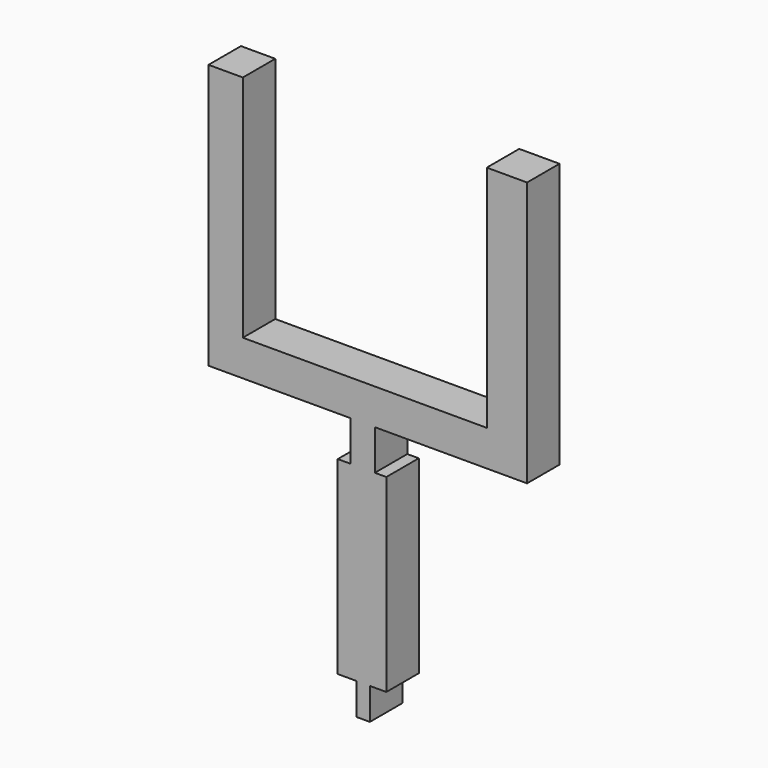
from build123d import *

# Parameters (mm, degrees)
F1_DEPTH = 4
F2_W     = 1.315023
F2_H     = 3.250724
F3_DEPTH = 4


with BuildPart() as f1:
    # F0 (on Front) → F1 (new body)
    with BuildSketch(Plane.XZ):
        Polygon((-45.647606, 43.93246), (-49.033377, 43.93246), (-49.033377, 17.80575), (-35.052311, 17.80575), (-35.052311, 13.84626), (-32.624222, 13.84626), (-32.624222, 17.80575), (-17.614221, 17.80575), (-17.614221, 43.93246), (-21.587456, 43.93246), (-21.587456, 21.337515), (-45.647606, 21.337515), align=None)
        Polygon((-32.624222, 13.84626), (-35.052311, 13.84626), (-36.286518, 13.84626), (-36.286518, -4.821106), (-31.493697, -4.821106), (-31.493697, 13.84626), align=None)
    extrude(amount=F1_DEPTH)

    # F2 (on Front) → F3 (join)
    with BuildSketch(Plane.XZ):
        with Locations((-33.775398, -6.322958)):
            Rectangle(F2_W, F2_H)
    extrude(amount=F3_DEPTH)


solid = f1.part
